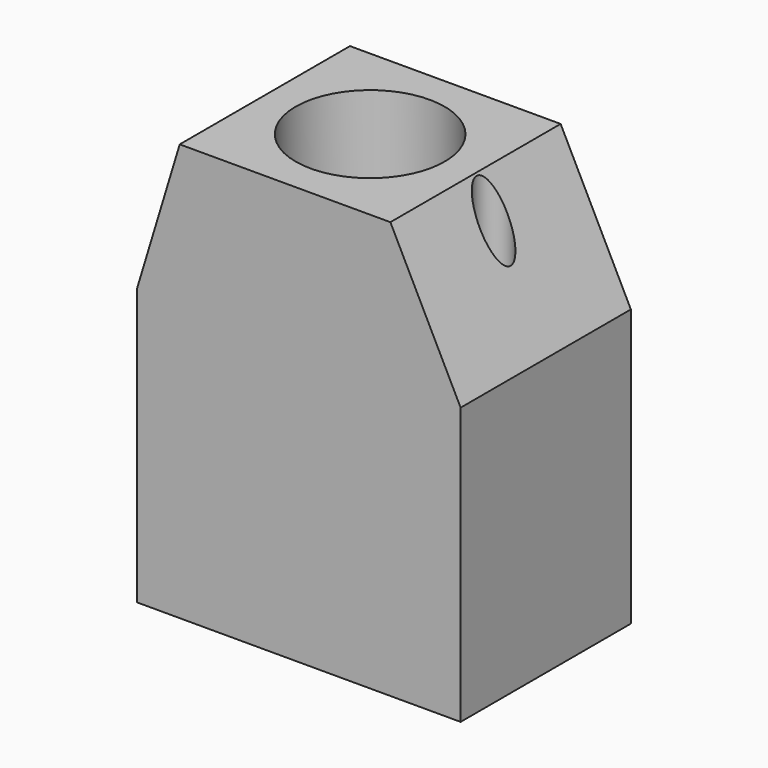
from build123d import *

# Parameters (mm, degrees)
PAD001_DEPTH    = 2.5
SKETCH003_W     = 1
SKETCH003_H     = 1
POCKET_DEPTH    = 3.75
SKETCH004_W     = 4.87
SKETCH004_H     = 4
POCKET001_DEPTH = 6.8
SKETCH005_R     = 1.75
SKETCH005_R_2   = 0.4
POCKET002_DEPTH = 5


with BuildPart() as part:
    # Sketch002 → Pad001 (new body, symmetric)
    with BuildSketch(Plane.XZ):
        Polygon((0, 0), (7.6, 0), (7.6, 6.5), (5.95, 9.8), (1, 9.8), (0, 6.5), align=None)
    extrude(amount=PAD001_DEPTH, both=True)

    # Sketch003 (on Face6 of Pad001) → Pocket (cut)
    with BuildSketch(Plane(origin=(0, 0, 0), x_dir=(0, 0, -1), z_dir=(-1, 0, 0))):
        with Locations((-0.5, 0)):
            Rectangle(SKETCH003_W, SKETCH003_H)
    extrude(amount=-POCKET_DEPTH, mode=Mode.SUBTRACT)

    # Sketch004 (on Face5 of Pocket) → Pocket001 (cut)
    with BuildSketch(Plane(origin=(0, 0, 0), x_dir=(0, 0, -1), z_dir=(-1, 0, 0))):
        with Locations((-3.435, 0)):
            Rectangle(SKETCH004_W, SKETCH004_H)
    extrude(amount=-POCKET001_DEPTH, mode=Mode.SUBTRACT)

    # Sketch005 (on Face10 of Pocket001) → Pocket002 (cut)
    with BuildSketch(Plane(origin=(0, 0, 9.8), x_dir=(-1, 0, 0), z_dir=(0, 0, 1))):
        with Locations((-3.475, 0)):
            Circle(SKETCH005_R)
        with Locations((-6.375, 0)):
            Circle(SKETCH005_R_2)
    extrude(amount=-POCKET002_DEPTH, mode=Mode.SUBTRACT)


solid = part.part
